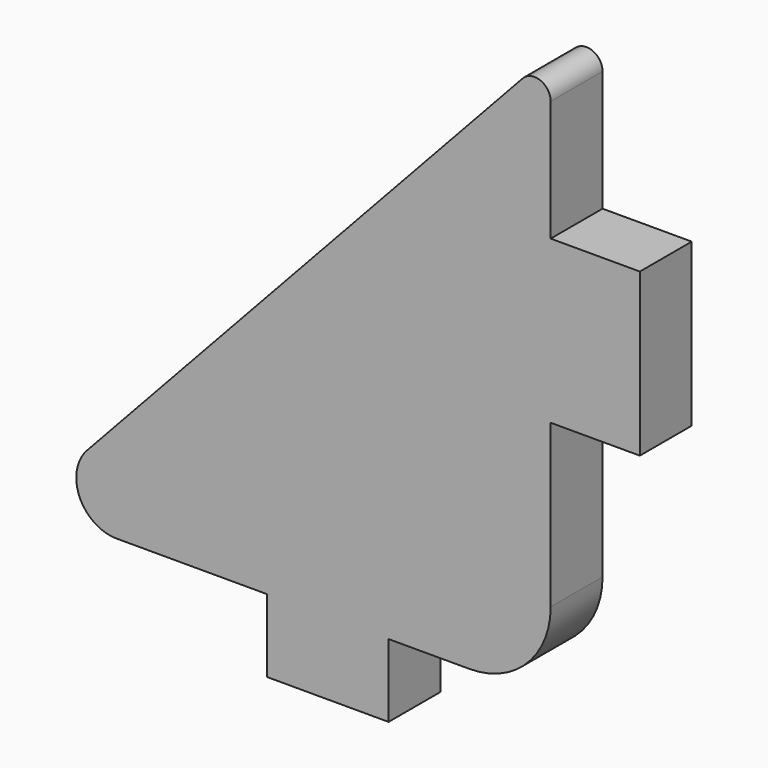
from build123d import *

# Parameters (mm, degrees)
F1_DEPTH = 8


with BuildPart() as f1:
    # F0 (on Front) → F1 (new body)
    with BuildSketch(Plane.XZ):
        with BuildLine():
            ThreePointArc((-57.197906, 8.402255), (-58.117129, 3.00141), (-53.533938, 0))
            Line((-53.533938, 0), (-35, 0))
            Line((-35, 0), (-35, -9))
            Line((-35, -9), (-20, -9))
            Line((-20, -9), (-20, 0))
            Line((-20, 0), (-10, 0))
            ThreePointArc((-10, 0), (-2.928932, 2.928932), (0, 10))
            Line((0, 10), (0, 30))
            Line((0, 30), (11, 30))
            Line((11, 30), (11, 50))
            Line((11, 50), (0, 50))
            Line((0, 50), (0, 64.906927))
            ThreePointArc((0, 64.906927), (-1.268964, 66.768536), (-3.465587, 66.267829))
            Line((-3.465587, 66.267829), (-57.197906, 8.402255))
        make_face()
    extrude(amount=F1_DEPTH)


solid = f1.part
